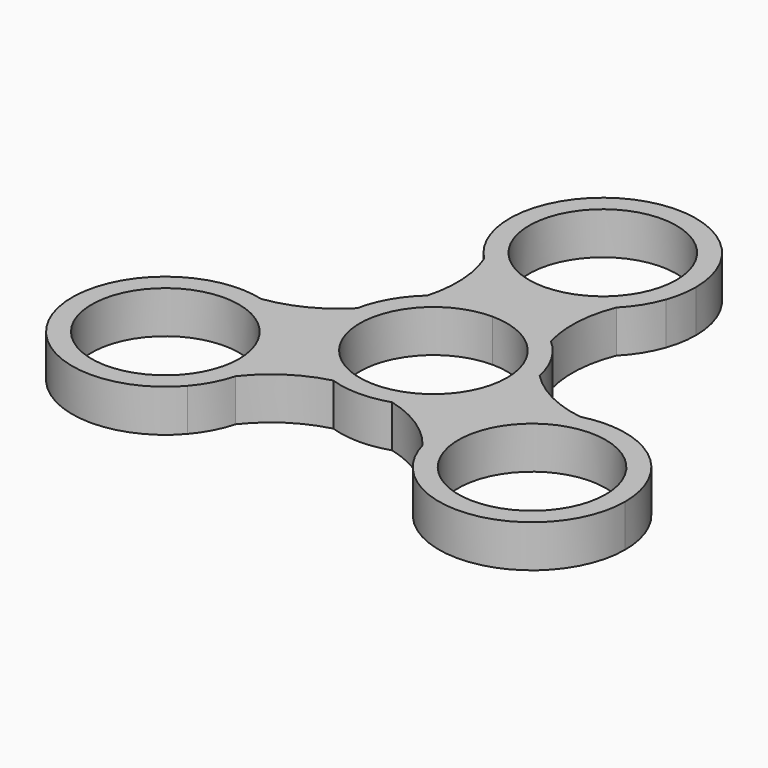
from build123d import *

# Parameters (mm, degrees)
F0_R     = 11.049
F1_DEPTH = 6.35


with BuildPart() as f1:
    # F0 (on Top) → F1 (new body)
    with BuildSketch(Plane.XY):
        with BuildLine():
            ThreePointArc((0, 11.049), (7.8128228253, 7.8128228253), (11.049, 0))
            ThreePointArc((11.049, 0), (-2.8596916293, -10.6725144547), (-9.5687146864, 5.5245))
            Line((-9.5687146864, 5.5245), (-10.9985226281, 6.35))
            ThreePointArc((-10.9985226281, 6.35), (-12.2305425843, 4.4949851068), (-13.6847763514, 2.8085220692))
            ThreePointArc((-13.6847763514, 2.8085220692), (-12.0983748909, -6.985), (-4.4101367166, -13.255625))
            ThreePointArc((-4.4101367166, -13.255625), (0, -12.7), (4.4101367166, -13.255625))
            ThreePointArc((4.4101367166, -13.255625), (11.3307217319, -8.1716366191), (13.97, 0))
            ThreePointArc((13.97, 0), (13.8985111726, 1.4114840367), (13.6847763514, 2.8085220692))
            ThreePointArc((13.6847763514, 2.8085220692), (10.9985226281, 6.35), (9.2746396347, 10.4471029308))
            ThreePointArc((9.2746396347, 10.4471029308), (4.9605882744, 13.059611938), (0, 13.97))
            Line((0, 13.97), (0, 11.049))
        make_face()
        with BuildLine():
            ThreePointArc((-9.5687146864, 5.5245), (-5.5245, 9.5687146864), (0, 11.049))
            Line((0, 11.049), (0, 13.97))
            ThreePointArc((0, 13.97), (-4.9605882745, 13.059611938), (-9.2746396347, 10.4471029308))
            ThreePointArc((-9.2746396347, 10.4471029308), (-10.0080425843, 8.3444680266), (-10.9985226281, 6.35))
            Line((-10.9985226281, 6.35), (-9.5687146864, 5.5245))
        make_face()
        with BuildLine():
            Line((0, 17.78), (0, 13.97))
            ThreePointArc((0, 13.97), (4.9605882744, 13.059611938), (9.2746396347, 10.4471029308))
            ThreePointArc((9.2746396347, 10.4471029308), (8.6440558401, 16.2303275513), (9.91396613, 21.9075320385))
            ThreePointArc((9.91396613, 21.9075320385), (5.369433051, 18.8530977087), (0, 17.78))
        make_face()
        with BuildLine():
            ThreePointArc((-9.2746396347, 10.4471029308), (-4.9605882745, 13.059611938), (0, 13.97))
            Line((0, 13.97), (0, 17.78))
            ThreePointArc((0, 17.78), (-5.369433051, 18.8530977087), (-9.91396613, 21.9075320385))
            ThreePointArc((-9.91396613, 21.9075320385), (-8.6440558401, 16.2303275513), (-9.2746396347, 10.4471029308))
        make_face()
        with BuildLine():
            ThreePointArc((-13.6847763514, 2.8085220692), (-12.2305425843, 4.4949851068), (-10.9985226281, 6.35))
            Line((-10.9985226281, 6.35), (-12.0983748909, 6.985))
            ThreePointArc((-12.0983748909, 6.985), (-13.059611938, 4.9605882744), (-13.6847763514, 2.8085220692))
        make_face()
        with BuildLine():
            Line((-12.0983748909, 6.985), (-10.9985226281, 6.35))
            ThreePointArc((-10.9985226281, 6.35), (-10.0080425843, 8.3444680266), (-9.2746396347, 10.4471029308))
            ThreePointArc((-9.2746396347, 10.4471029308), (-10.8258014324, 8.8296615647), (-12.0983748909, 6.985))
        make_face()
        with BuildLine():
            ThreePointArc((13.6847763514, 2.8085220692), (12.0983748909, 6.985), (9.2746396347, 10.4471029308))
            ThreePointArc((9.2746396347, 10.4471029308), (10.9985226281, 6.35), (13.6847763514, 2.8085220692))
        make_face()
        with BuildLine():
            ThreePointArc((-9.91396613, 21.9075320385), (-5.369433051, 18.8530977087), (0, 17.78))
            ThreePointArc((0, 17.78), (5.369433051, 18.8530977087), (9.91396613, 21.9075320385))
            ThreePointArc((9.91396613, 21.9075320385), (11.3221806889, 24.6683972591), (13.1884215, 27.1427841012))
            ThreePointArc((13.1884215, 27.1427841012), (13.7732194558, 29.413479976), (13.97, 31.75))
            ThreePointArc((13.97, 31.75), (-2.336520024, 45.5232194558), (-13.1884215, 27.1427841012))
            ThreePointArc((-13.1884215, 27.1427841012), (-11.3221806889, 24.6683972591), (-9.91396613, 21.9075320385))
        make_face()
        with BuildLine():
            ThreePointArc((11.049, 31.75), (7.8128228253, 23.9371771747), (0, 20.701))
            ThreePointArc((0, 20.701), (-7.8128228253, 39.5628228253), (11.049, 31.75))
        make_face(mode=Mode.SUBTRACT)
        with BuildLine():
            ThreePointArc((-4.4101367166, -13.255625), (-12.0983748909, -6.985), (-13.6847763514, 2.8085220692))
            ThreePointArc((-13.6847763514, 2.8085220692), (-18.3779038912, -0.6291918264), (-23.9294623446, -2.3680194984))
            ThreePointArc((-23.9294623446, -2.3680194984), (-16.4285671029, -7.3505620077), (-13.5263065702, -15.875))
            ThreePointArc((-13.5263065702, -15.875), (-13.6491440329, -17.7235101207), (-14.0154962146, -19.5395125401))
            ThreePointArc((-14.0154962146, -19.5395125401), (-9.7338480512, -15.6011357249), (-4.4101367166, -13.255625))
        make_face()
        with BuildLine():
            ThreePointArc((23.9294623446, -2.3680194984), (18.3779038912, -0.6291918264), (13.6847763514, 2.8085220692))
            ThreePointArc((13.6847763514, 2.8085220692), (13.8985111726, 1.4114840367), (13.97, 0))
            ThreePointArc((13.97, 0), (11.3307217319, -8.1716366191), (4.4101367166, -13.255625))
            ThreePointArc((4.4101367166, -13.255625), (9.7338480512, -15.6011357249), (14.0154962146, -19.5395125401))
            ThreePointArc((14.0154962146, -19.5395125401), (15.3979316793, -8.89), (23.9294623446, -2.3680194984))
        make_face()
        with BuildLine():
            ThreePointArc((13.1884215, 27.1427841012), (11.3221806889, 24.6683972591), (9.91396613, 21.9075320385))
            ThreePointArc((9.91396613, 21.9075320385), (11.8440721288, 24.3419735821), (13.1884215, 27.1427841012))
        make_face()
        with BuildLine():
            ThreePointArc((-13.1884215, 27.1427841012), (-11.8440721288, 24.3419735821), (-9.91396613, 21.9075320385))
            ThreePointArc((-9.91396613, 21.9075320385), (-11.3221806889, 24.6683972591), (-13.1884215, 27.1427841012))
        make_face()
        with BuildLine():
            ThreePointArc((4.4101367166, -13.255625), (0, -12.7), (-4.4101367166, -13.255625))
            ThreePointArc((-4.4101367166, -13.255625), (0, -13.97), (4.4101367166, -13.255625))
        make_face()
        with BuildLine():
            ThreePointArc((-30.1005513111, -2.1498839958), (-27.0245490415, -2.5289025267), (-23.9294623446, -2.3680194984))
            ThreePointArc((-23.9294623446, -2.3680194984), (-27.0028035648, -1.9137194433), (-30.1005513111, -2.1498839958))
        make_face()
        with BuildLine():
            ThreePointArc((-13.5263065702, -15.875), (-16.4285671029, -7.3505620077), (-23.9294623446, -2.3680194984))
            ThreePointArc((-23.9294623446, -2.3680194984), (-27.0245490415, -2.5289025267), (-30.1005513111, -2.1498839958))
            ThreePointArc((-30.1005513111, -2.1498839958), (-39.594681461, -22.86), (-16.9121298111, -24.9929001054))
            ThreePointArc((-16.9121298111, -24.9929001054), (-15.7023683526, -22.1394947323), (-14.0154962146, -19.5395125401))
            ThreePointArc((-14.0154962146, -19.5395125401), (-13.6491440329, -17.7235101207), (-13.5263065702, -15.875))
        make_face()
        with Locations((-27.4963065702, -15.875)):
            Circle(F0_R, mode=Mode.SUBTRACT)
        with BuildLine():
            ThreePointArc((30.1005513111, -2.1498839958), (27.0245490415, -2.5289025267), (23.9294623446, -2.3680194984))
            ThreePointArc((23.9294623446, -2.3680194984), (15.3979316793, -8.89), (14.0154962146, -19.5395125401))
            ThreePointArc((14.0154962146, -19.5395125401), (15.7023683526, -22.1394947323), (16.9121298111, -24.9929001054))
            ThreePointArc((16.9121298111, -24.9929001054), (32.3594306009, -28.9712179526), (41.4663065702, -15.875))
            ThreePointArc((41.4663065702, -15.875), (38.2560044988, -6.9649045749), (30.1005513111, -2.1498839958))
        make_face()
        with Locations((27.4963065702, -15.875)):
            Circle(F0_R, mode=Mode.SUBTRACT)
        with BuildLine():
            ThreePointArc((30.1005513111, -2.1498839958), (27.0028035648, -1.9137194433), (23.9294623446, -2.3680194984))
            ThreePointArc((23.9294623446, -2.3680194984), (27.0245490415, -2.5289025267), (30.1005513111, -2.1498839958))
        make_face()
        with BuildLine():
            ThreePointArc((-16.9121298111, -24.9929001054), (-15.158731436, -22.4282541389), (-14.0154962146, -19.5395125401))
            ThreePointArc((-14.0154962146, -19.5395125401), (-15.7023683526, -22.1394947323), (-16.9121298111, -24.9929001054))
        make_face()
        with BuildLine():
            ThreePointArc((16.9121298111, -24.9929001054), (15.7023683526, -22.1394947323), (14.0154962146, -19.5395125401))
            ThreePointArc((14.0154962146, -19.5395125401), (15.158731436, -22.4282541389), (16.9121298111, -24.9929001054))
        make_face()
    extrude(amount=F1_DEPTH)


solid = f1.part
